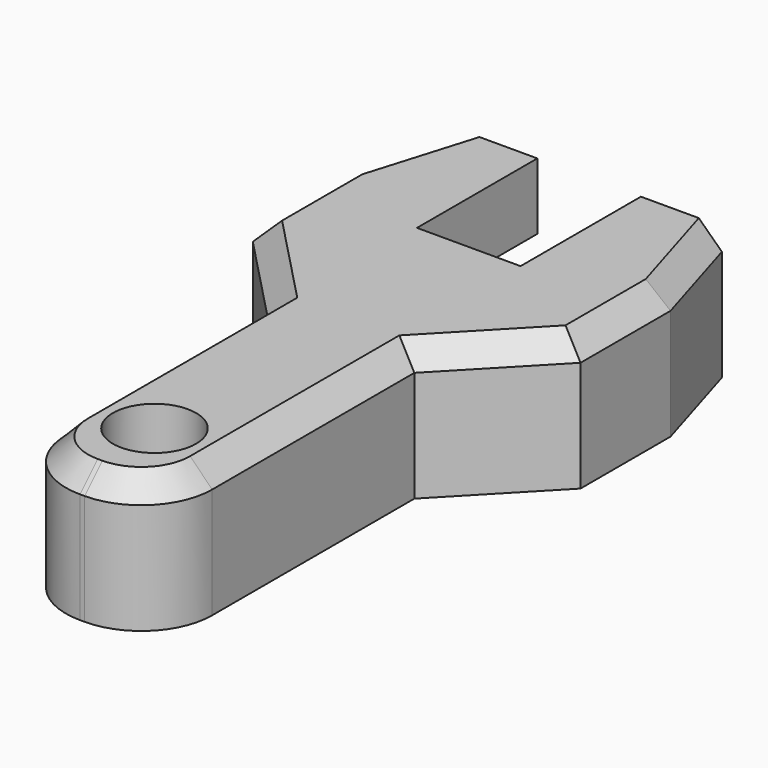
from build123d import *

# Parameters (mm, degrees)
F0_R     = 2.3876
F1_DEPTH = 3.81
F2_R     = 2.3876
F3_DEPTH = 3.81
F4_SIZE  = 1.27


with BuildPart() as f1:
    # F0 (on Top) → F1 (new body)
    with BuildSketch(Plane.XY):
        with BuildLine():
            ThreePointArc((5.715, 9.7989101959), (0, 7.9772757461), (-5.715, 9.7989101959))
            Line((-5.715, 9.7989101959), (-5.715, 19.3437465092))
            Line((-5.715, 19.3437465092), (-7.6151215981, 19.3437465092))
            Line((-7.6151215981, 19.3437465092), (-9.3965170219, 13.432749836))
            Line((-9.3965170219, 13.432749836), (-9.3965170219, 6.983557897))
            Line((-9.3965170219, 6.983557897), (-4.1960714835, 1.5722833676))
            Line((-4.1960714835, 1.5722833676), (-4.1960714835, -12.9142534908))
            ThreePointArc((-4.1960714835, -12.9142534908), (-3.0057534422, -15.7879354495), (-0.1320714835, -16.9782534908))
            Line((-0.1320714835, -16.9782534908), (0, -16.9782534908))
            Line((0, -16.9782534908), (0.1320714835, -16.9782534908))
            ThreePointArc((0.1320714835, -16.9782534908), (3.0057534422, -15.7879354495), (4.1960714835, -12.9142534908))
            Line((4.1960714835, -12.9142534908), (4.1960714835, 1.5722833676))
            Line((4.1960714835, 1.5722833676), (9.3965170219, 6.983557897))
            Line((9.3965170219, 6.983557897), (9.3965170219, 13.432749836))
            Line((9.3965170219, 13.432749836), (7.6151215981, 19.3437465092))
            Line((7.6151215981, 19.3437465092), (5.715, 19.3437465092))
            Line((5.715, 19.3437465092), (5.715, 9.7989101959))
        make_face()
        with Locations((0, -11.8050774974)):
            Circle(F0_R, mode=Mode.SUBTRACT)
    extrude(amount=F1_DEPTH)

    # F2 (on face) → F3 (join)
    with BuildSketch(Plane.XY.offset(3.81)):
        with BuildLine():
            Line((-5.715, 9.7989101959), (-5.715, 19.3437465092))
            Line((-5.715, 19.3437465092), (-7.6151215981, 19.3437465092))
            Line((-7.6151215981, 19.3437465092), (-9.3965170219, 13.432749836))
            Line((-9.3965170219, 13.432749836), (-9.3965170219, 6.983557897))
            Line((-9.3965170219, 6.983557897), (-4.1960714835, 1.5722833676))
            Line((-4.1960714835, 1.5722833676), (-4.1960714835, -12.9142534908))
            ThreePointArc((-4.1960714835, -12.9142534908), (-3.0057534422, -15.7879354495), (-0.1320714835, -16.9782534908))
            Line((-0.1320714835, -16.9782534908), (0.1320714835, -16.9782534908))
            ThreePointArc((0.1320714835, -16.9782534908), (3.0057534422, -15.7879354495), (4.1960714835, -12.9142534908))
            Line((4.1960714835, -12.9142534908), (4.1960714835, 1.5722833676))
            Line((4.1960714835, 1.5722833676), (9.3965170219, 6.983557897))
            Line((9.3965170219, 6.983557897), (9.3965170219, 13.432749836))
            Line((9.3965170219, 13.432749836), (7.6151215981, 19.3437465092))
            Line((7.6151215981, 19.3437465092), (5.715, 19.3437465092))
            Line((5.715, 19.3437465092), (5.715, 9.7989101959))
            ThreePointArc((5.715, 9.7989101959), (0, 7.9772757461), (-5.715, 9.7989101959))
        make_face()
        with Locations((0, -11.8050774974)):
            Circle(F2_R, mode=Mode.SUBTRACT)
        with BuildLine():
            Line((-2.9692309909, 19.3437465092), (-5.715, 19.3437465092))
            Line((-5.715, 19.3437465092), (-5.715, 9.7989101959))
            ThreePointArc((-5.715, 9.7989101959), (0, 7.9772757461), (5.715, 9.7989101959))
            Line((5.715, 9.7989101959), (5.715, 19.3437465092))
            Line((5.715, 19.3437465092), (2.9692309909, 19.3437465092))
            Line((2.9692309909, 19.3437465092), (2.9692309909, 10.7184536755))
            Line((2.9692309909, 10.7184536755), (0, 10.7184536755))
            Line((0, 10.7184536755), (-2.9692309909, 10.7184536755))
            Line((-2.9692309909, 10.7184536755), (-2.9692309909, 19.3437465092))
        make_face()
    extrude(amount=F3_DEPTH)

    # F4
    f4_edges = [f1.edges().sort_by_distance(p)[0] for p in [
        (-8.505819, 16.388248, 7.62),
        (-9.396517, 10.208154, 7.62),
        (-6.796294, 4.277921, 7.62),
        (-4.196071, -5.670985, 7.62),
        (6.796294, 4.277921, 7.62),
        (9.396517, 10.208154, 7.62),
        (8.505819, 16.388248, 7.62),
    ]]
    chamfer(f4_edges, length=F4_SIZE)


solid = f1.part
